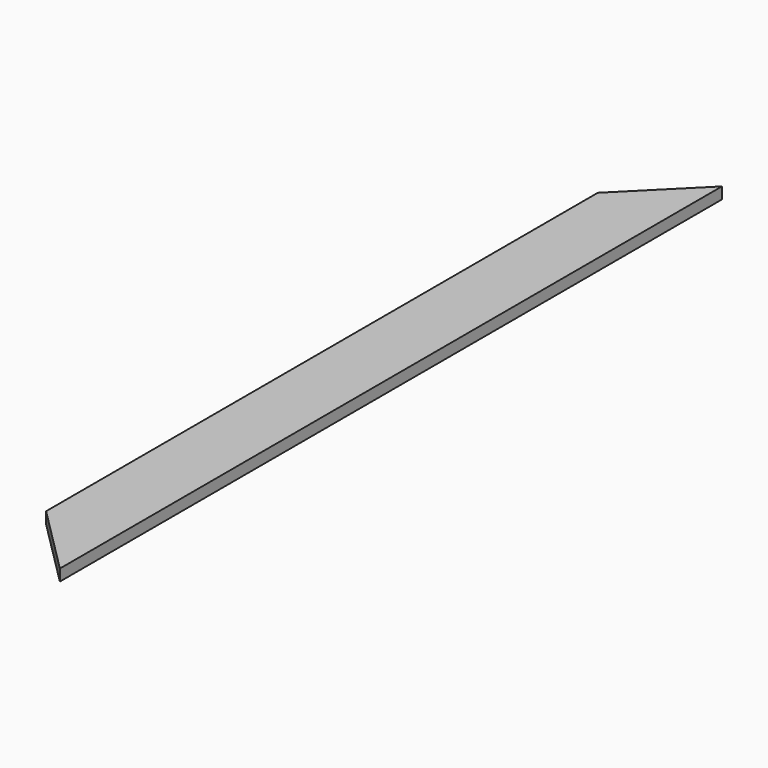
from build123d import *

# Parameters (mm, degrees)
F0_W     = 152.4
F0_H     = 25.4
F1_DEPTH = 1828.8
F3_DEPTH = 182.88


with BuildPart() as f1:
    # F0 (on Front) → F1 (new body)
    with BuildSketch(Plane.XZ):
        with Locations((5.332766, 18.232247)):
            Rectangle(F0_W, F0_H)
    extrude(amount=F1_DEPTH)

    # F2 (on face) → F3 (cut)
    with BuildSketch(Plane.XY.offset(30.932247)):
        Polygon((-70.867234, -152.4), (81.532766, 0), (-70.867234, 0), align=None)
        Polygon((-70.867234, -1828.8), (81.532766, -1828.8), (-70.867234, -1676.4), align=None)
    extrude(amount=-F3_DEPTH, mode=Mode.SUBTRACT)


solid = f1.part
